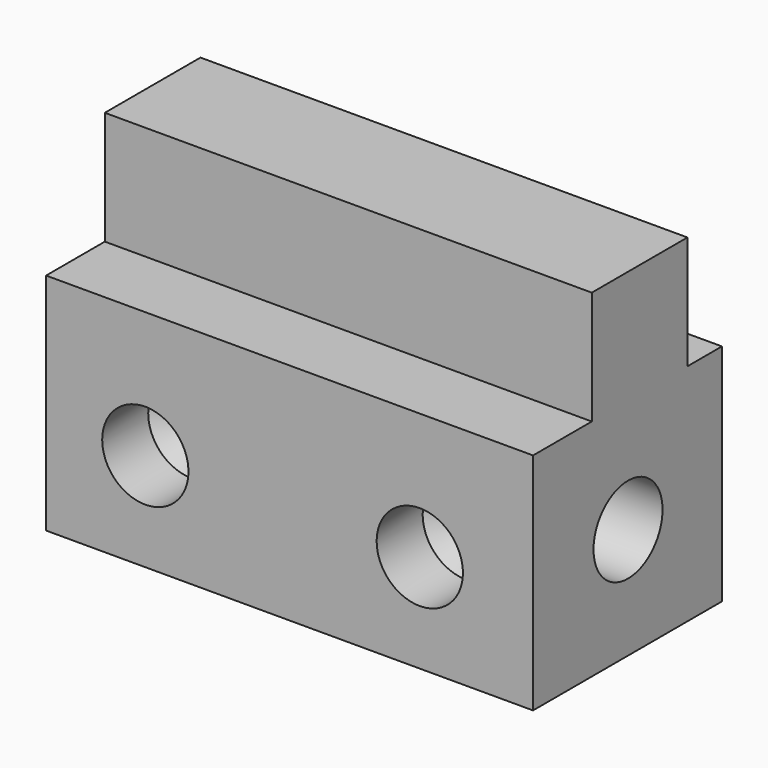
from build123d import *

# Parameters (mm, degrees)
F0_W     = 107.5221002102
F0_H     = 52.1313343197
F1_DEPTH = 49.57312
F2_W     = 107.5221002102
F2_H     = 26.3976580463
F3_DEPTH = 25.04967
F6_D     = 19.05
F7_D     = 19.05
F7_DEPTH = 12.7
F7_TIP   = 5.7231973962


with BuildPart() as f1:
    # F0 (on Top) → F1 (new body)
    with BuildSketch(Plane.XY):
        with Locations((-0.1560784876, 13.9232939109)):
            Rectangle(F0_W, F0_H)
    extrude(amount=F1_DEPTH)

    # F2 (on face) → F3 (join)
    with BuildSketch(Plane.XY.offset(49.57312)):
        with Locations((-0.1560784876, 17.2676101793)):
            Rectangle(F2_W, F2_H)
    extrude(amount=F3_DEPTH)

    # F6 (through all)
    with Locations(Plane.YZ.offset(53.6049716175)):
        with Locations((14.0758333728, 24.4949776679)):
            Hole(F6_D / 2)

    # F7
    with Locations(Plane.XZ.offset(12.1423732489)):
        with Locations((-32.0040024817, 21.6798111796), (28.5961665213, 21.6798111796)):
            Hole(F7_D / 2, depth=F7_DEPTH)
            with Locations((0, 0, -(F7_DEPTH + F7_TIP / 2))):  # 118° drill point
                Cone(0, F7_D / 2, F7_TIP, mode=Mode.SUBTRACT)


solid = f1.part
